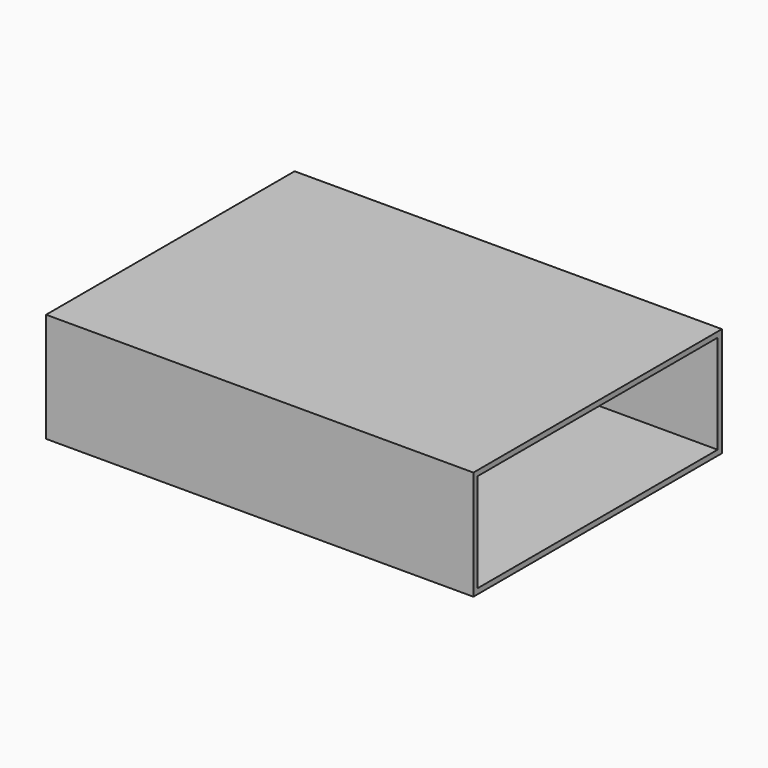
from build123d import *

# Parameters (mm, degrees)
F0_W     = 64.9
F0_H     = 46.6
F0_W_2   = 63.3
F0_H_2   = 45
F1_DEPTH = 0.8
F2_DEPTH = 14.8
F3_W     = 64.9
F3_H     = 46.6
F3_W_2   = 63.3
F3_H_2   = 45
F4_DEPTH = 0.8
F5_DEPTH = 0.8


with BuildPart() as f1:
    # F0 (on Top) → F1 (new body)
    with BuildSketch(Plane.XY):
        with Locations((-30.4580235958, -37.7106211)):
            Rectangle(F0_W, F0_H)
        with Locations((-30.4580235958, -37.7106211)):
            Rectangle(F0_W_2, F0_H_2, mode=Mode.SUBTRACT)
        with Locations((-30.4580235958, -37.7106211)):
            Rectangle(F0_W_2, F0_H_2)
    extrude(amount=-F1_DEPTH)

    # F0 (on Top) → F2 (join)
    with BuildSketch(Plane.XY):
        with Locations((-30.4580235958, -37.7106211)):
            Rectangle(F0_W, F0_H)
        with Locations((-30.4580235958, -37.7106211)):
            Rectangle(F0_W_2, F0_H_2, mode=Mode.SUBTRACT)
    extrude(amount=F2_DEPTH)

    # F3 (on face) → F4 (join)
    with BuildSketch(Plane.XY.offset(14.8)):
        with Locations((-30.4580235958, -37.7106211)):
            Rectangle(F3_W, F3_H)
        with Locations((-30.4580235958, -37.7106211)):
            Rectangle(F3_W_2, F3_H_2, mode=Mode.SUBTRACT)
        with Locations((-30.4580235958, -37.7106211)):
            Rectangle(F3_W_2, F3_H_2)
    extrude(amount=F4_DEPTH)

    # F5 (cut): a face of the model
    f5_faces = [f1.faces().sort_by_distance(p)[0] for p in [
        (1.9919764042, -37.7106211, 7.4),
    ]]
    extrude(f5_faces, amount=-F5_DEPTH, mode=Mode.SUBTRACT)


solid = f1.part
